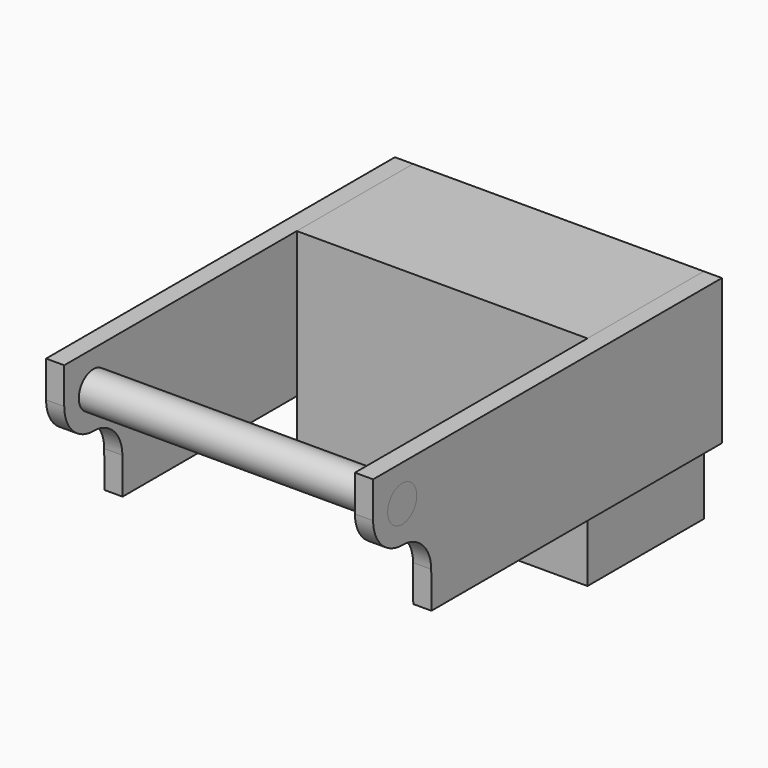
from build123d import *

# Parameters (mm, degrees)
F0_R     = 6.35
F1_DEPTH = 6.35
F2_DEPTH = 114.3
F3_W     = 101.6
F3_H     = 50.8
F3_W_2   = 95.25
F3_H_2   = 44.45
F4_DEPTH = 76.2
F5_DEPTH = 3.175


with BuildPart() as f1:
    # F0 (on Right) → F1 (new body)
    with BuildSketch(Plane.YZ):
        with BuildLine():
            Line((92.8125518615, 14.0854540884), (-59.5874481385, 14.0854540884))
            Line((-59.5874481385, 14.0854540884), (-59.5874481385, 1.3854540884))
            ThreePointArc((-59.5874481385, 1.3854540884), (-55.8677042596, -7.5948020326), (-46.8874481385, -11.3145459116))
            Line((-46.8874481385, -11.3145459116), (-46.8871742751, -11.3145459116))
            ThreePointArc((-46.8871742751, -11.3145459116), (-37.9364541329, -15.0048506371), (-34.1874481385, -23.9311429293))
            Line((-34.1874481385, -23.9311429293), (-34.1034956248, -36.7145459116))
            Line((-34.1034956248, -36.7145459116), (92.8125518615, -36.7145459116))
            Line((92.8125518615, -36.7145459116), (92.8125518615, 14.0854540884))
        make_face()
        with Locations((-46.8874481385, 1.3854540884)):
            Circle(F0_R, mode=Mode.SUBTRACT)
    extrude(amount=F1_DEPTH)


with BuildPart() as f2:
    # F0 (on Right) → F2 (new body)
    with BuildSketch(Plane.YZ):
        with Locations((-46.8874481385, 1.3854540884)):
            Circle(F0_R)
    extrude(amount=F2_DEPTH)


with BuildPart() as f4:
    # F3 (on face) → F4 (new body)
    with BuildSketch(Plane.XY.offset(14.0854540884)):
        with Locations((57.15, 67.4125518615)):
            Rectangle(F3_W, F3_H)
        with Locations((57.15, 67.4125518615)):
            Rectangle(F3_W_2, F3_H_2, mode=Mode.SUBTRACT)
    extrude(amount=-F4_DEPTH)

    # F3 (on face) → F5 (join)
    with BuildSketch(Plane.XY.offset(14.0854540884)):
        with Locations((57.15, 67.4125518615)):
            Rectangle(F3_W_2, F3_H_2)
    extrude(amount=-F5_DEPTH)


with BuildPart() as f6_1:
    # F6: copy of F1
    add(f1.part.moved(Location((107.95, 0, 0))))


solid = Compound([f1.part, f2.part, f4.part, f6_1.part])
